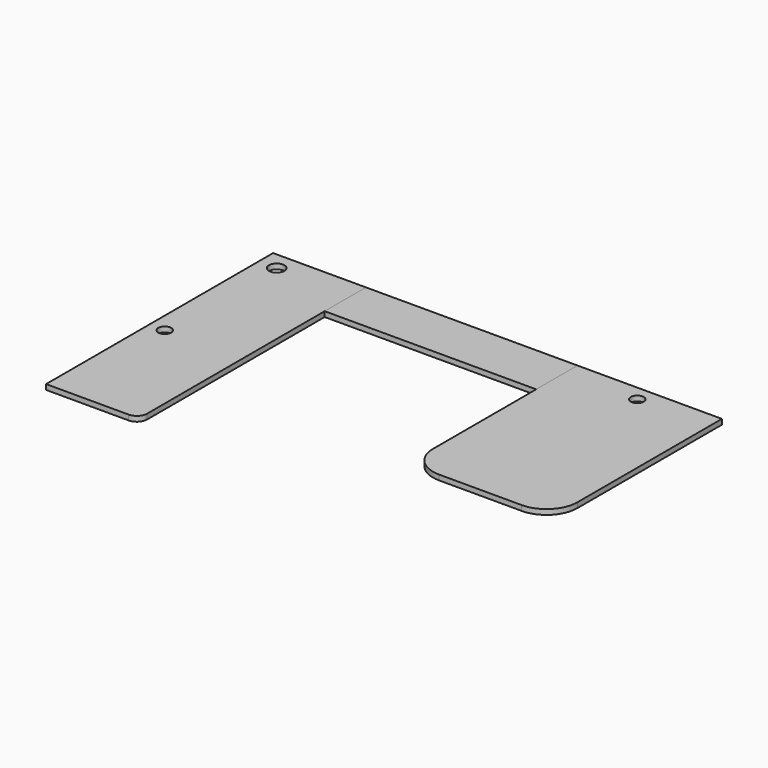
from build123d import *

# Parameters (mm, degrees)
F0_W     = 457.2
F0_H     = 1397
F1_DEPTH = 25.4
F2_W     = 1041.4
F2_H     = 254
F3_DEPTH = 25.4
F4_W     = 711.2
F4_H     = 1041.4
F5_DEPTH = 25.4
F6_R     = 50.8
F7_R     = 152.4
F8_R     = 38.1
F8_R_2   = 31.75
F9_DEPTH = 25.4


with BuildPart() as f1:
    # F0 (on Top) → F1 (new body)
    with BuildSketch(Plane.XY):
        with Locations((228.6, -698.5)):
            Rectangle(F0_W, F0_H)
    extrude(amount=-F1_DEPTH)

    # F6
    f6_edges = [f1.edges().sort_by_distance(p)[0] for p in [
        (457.2, -1397, -12.7),
    ]]
    fillet(f6_edges, radius=F6_R)


with BuildPart() as f3:
    # F2 (on Top) → F3 (new body)
    with BuildSketch(Plane.XY):
        with Locations((977.9, -127)):
            Rectangle(F2_W, F2_H)
    extrude(amount=-F3_DEPTH)


with BuildPart() as f5:
    # F4 (on Top) → F5 (new body)
    with BuildSketch(Plane.XY):
        with Locations((1854.2, -520.7)):
            Rectangle(F4_W, F4_H)
    extrude(amount=-F5_DEPTH)

    # F7
    f7_edges = [f5.edges().sort_by_distance(p)[0] for p in [
        (2209.8, -1041.4, -12.7),
        (1498.6, -1041.4, -12.7),
    ]]
    fillet(f7_edges, radius=F7_R)


with BuildPart() as f9_tool:
    # F8 (on face) → F9 (new body)
    with BuildSketch(Plane.XY):
        with Locations((88.9, -88.9)):
            Circle(F8_R)
        with Locations((1854.2, -76.2)):
            Circle(F8_R_2)
        with Locations((76.2, -762)):
            Circle(F8_R_2)
    extrude(amount=-F9_DEPTH)


with BuildPart() as f1_1:
    add(f1.part)

    # F9: cut by f9_tool
    add(f9_tool.part, mode=Mode.SUBTRACT)


with BuildPart() as f5_1:
    add(f5.part)

    # F9: cut by f9_tool
    add(f9_tool.part, mode=Mode.SUBTRACT)


solid = Compound([f3.part, f1_1.part, f5_1.part])
